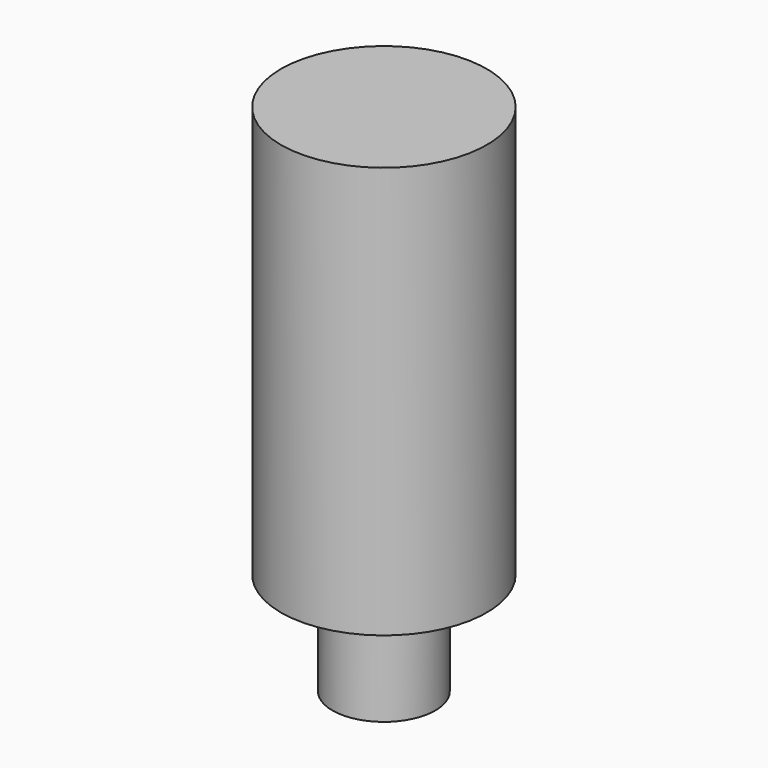
from build123d import *

# Parameters (mm, degrees)
F0_W = 2.5
F0_H = 5


with BuildPart() as f1:
    # F0 (on Front) → F1 (revolve)
    with BuildSketch(Plane.XZ):
        Polygon((-2.5, 5), (0, 5), (0, 25), (-5, 25), (-5, 5), align=None)
        with Locations((-1.25, 2.5)):
            Rectangle(F0_W, F0_H)
    revolve(axis=Axis((0, 0, 15), (0, 0, 1)))


solid = f1.part
